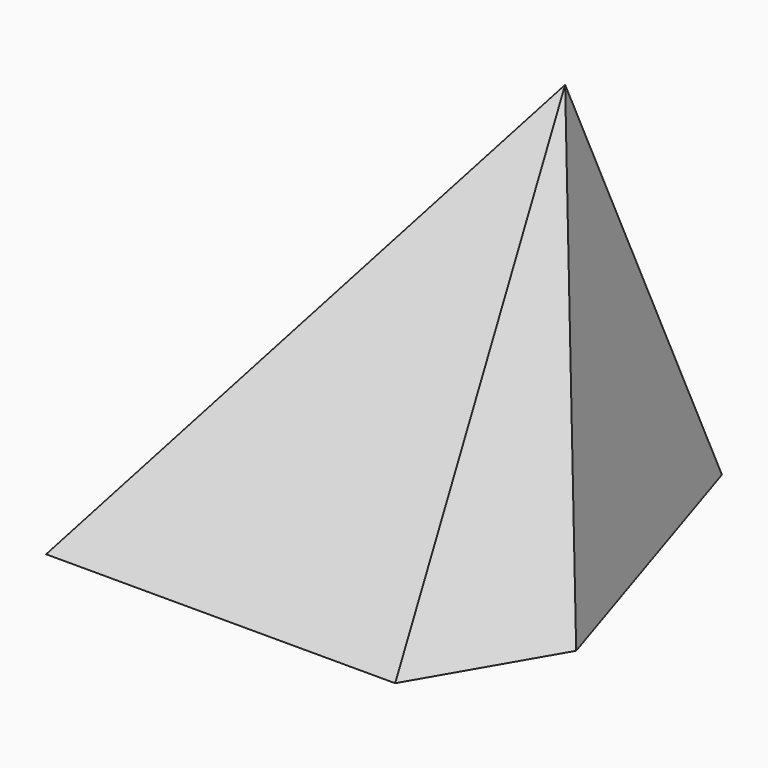
from build123d import *


with BuildPart() as f3:
    # F0 (on Top) → F3 section 0
    with BuildSketch(Plane.XY, mode=Mode.PRIVATE) as f3_s0:
        Polygon((-18.737044, -17.433519), (-43.231335, -49.965993), (12.72794, -49.965993), (24.92932, -28.947502), (9.365647, 19.709695), (-26.900591, 33.499688), (-39.361805, 16.511189), align=None)
    loft([Vertex(0, 0, 60), f3_s0.sketch])


solid = f3.part
